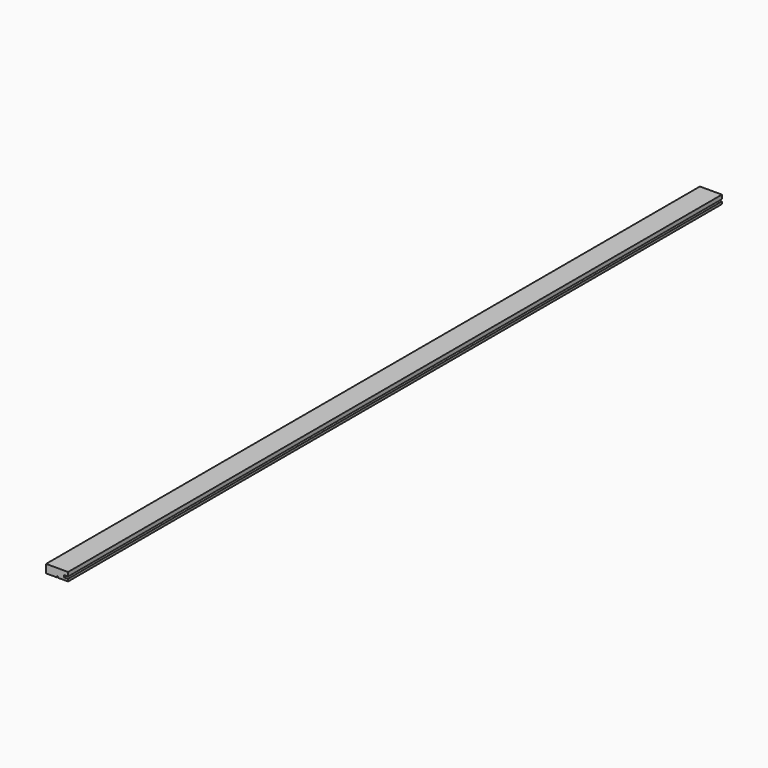
from build123d import *

# Parameters (mm, degrees)
F1_DEPTH = 2042
F2_W     = 3
F2_H     = 3
F2_W_2   = 40
F2_H_2   = 21
F3_DEPTH = 2042.001


with BuildPart() as f1:
    # F0 (on Front) → F1 (new body)
    with BuildSketch(Plane.XZ):
        Polygon((47.5, 10.5), (-21.726497, 10.5), (-27.5, 0.5), (-47.5, 0.5), (-47.5, -4.5), (-37.5, -4.5), (-37.5, -10.5), (47.5, -10.5), (47.5, -4.5), (37.5, -4.5), (37.5, 0.5), (47.5, 0.5), align=None)
    extrude(amount=F1_DEPTH)

    # F2 (on face) → F3 (cut, through all)
    with BuildSketch(Plane.XZ.offset(2042)):
        with Locations((21, -9)):
            Rectangle(F2_W, F2_H)
        with Locations((-27.5, 0)):
            Rectangle(F2_W_2, F2_H_2)
    extrude(amount=-F3_DEPTH, mode=Mode.SUBTRACT)


solid = f1.part
